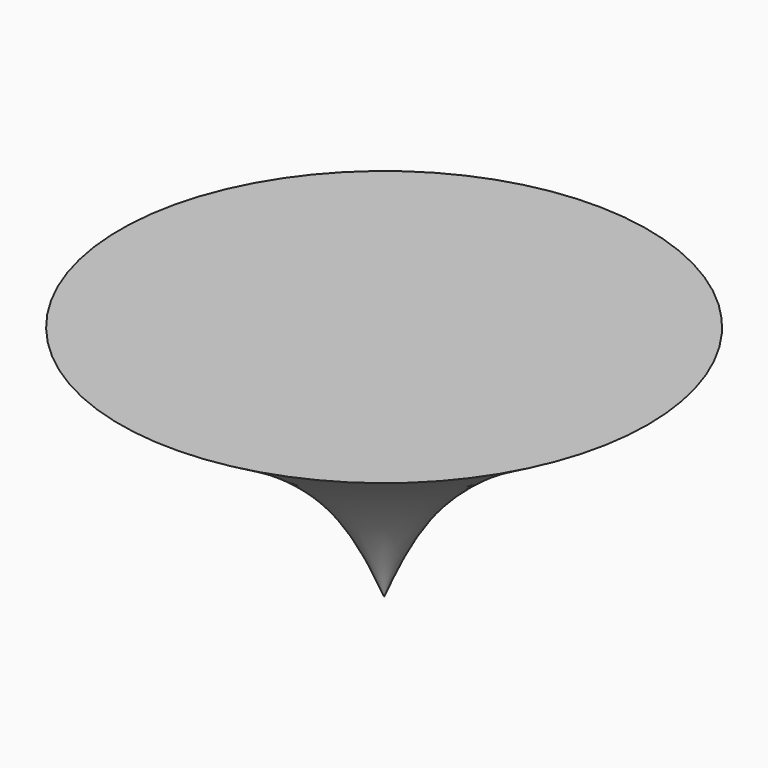
from build123d import *


with BuildPart() as f1:
    # F0 (on Front) → F1 (revolve)
    with BuildSketch(Plane.XZ):
        with BuildLine():
            Line((25.4, 54.6100009435), (0, 54.6100009435))
            Line((0, 54.6100009435), (0, 31.7500009435))
            add(Edge.make_bspline(
                [(25.4, 54.6100009435), (17.5988384701, 50.1534912146), (4.5557188411, 42.702448277), (1.3060314882, 34.8898437628), (0, 31.7500009435)],
                knots=[0, 0, 0, 0, 0.5981054956, 1, 1, 1, 1], degree=3))
        make_face()
    revolve(axis=Axis((0, 0, 43.1800009435), (0, 0, -1)))


solid = f1.part
